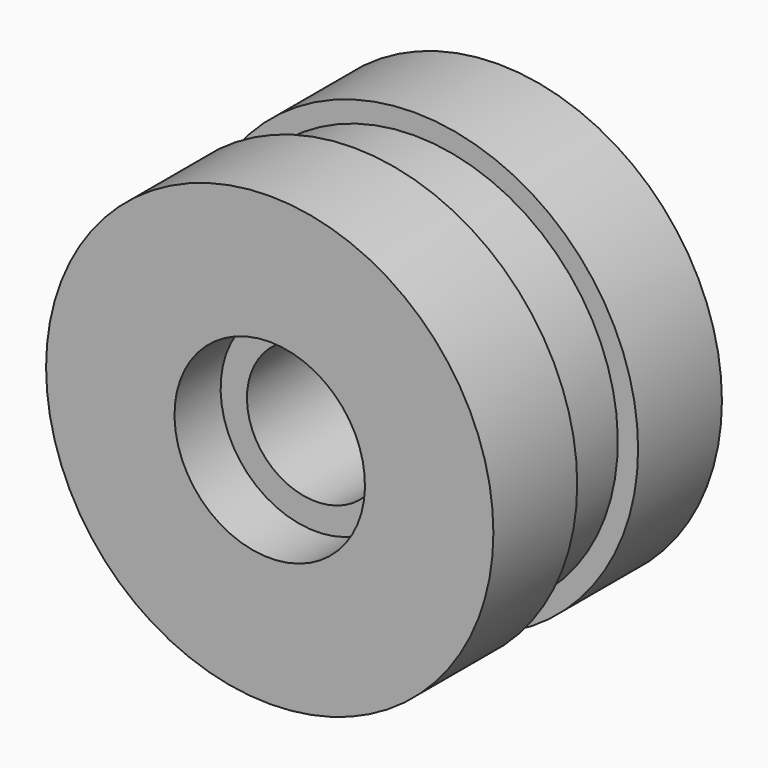
from build123d import *


with BuildPart() as f1:
    # F0 (on Right) → F1 (revolve)
    with BuildSketch(Plane.YZ):
        Polygon((-18.7706, 15.1765), (0, 15.1765), (18.7706, 15.1765), (18.7706, 20.9804), (31.4706, 20.9804), (31.4706, 49.276), (8.382, 49.276), (8.382, 44.8056), (-8.382, 44.8056), (-8.382, 49.276), (-31.4706, 49.276), (-31.4706, 20.9804), (-18.7706, 20.9804), align=None)
    revolve(axis=Axis((0, -0.984378, 0), (0, 1, 0)))


solid = f1.part
